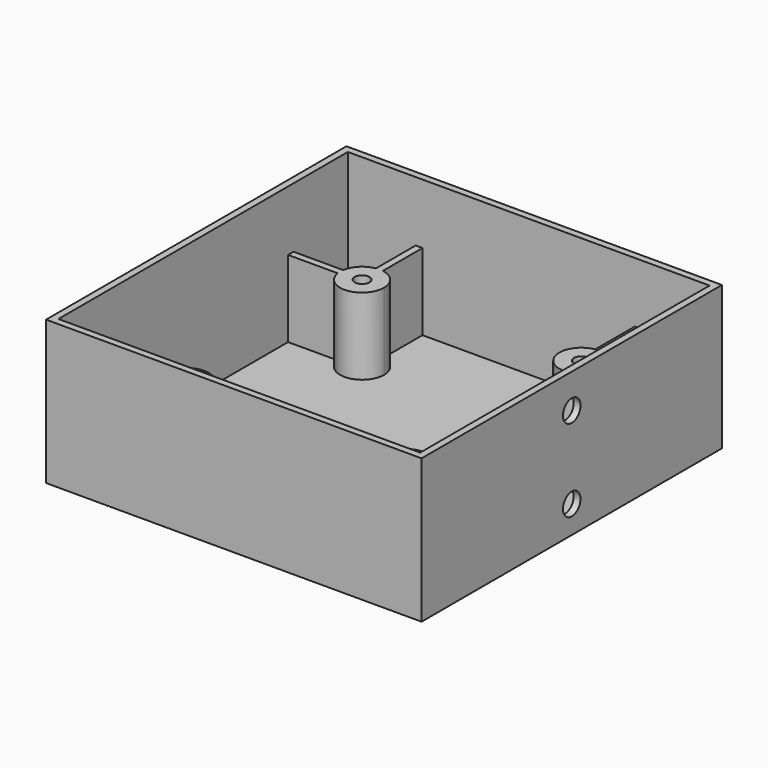
from build123d import *

# Parameters (mm, degrees)
F0_W     = 86.995
F0_H     = 86.995
F1_DEPTH = 1.5875
F2_W     = 86.995
F2_H     = 86.995
F2_W_2   = 83.82
F2_H_2   = 83.82
F3_DEPTH = 31.75
F4_R     = 1.7145
F5_DEPTH = 17.78
F6_R     = 2.54
F7_DEPTH = 1.5875


with BuildPart() as f1:
    # F0 (on Top) → F1 (new body)
    with BuildSketch(Plane.XY):
        Rectangle(F0_W, F0_H)
    extrude(amount=F1_DEPTH)

    # F2 (on face) → F3 (join)
    with BuildSketch(Plane.XY.offset(1.5875)):
        Rectangle(F2_W, F2_H)
        Rectangle(F2_W_2, F2_H_2, mode=Mode.SUBTRACT)
    extrude(amount=F3_DEPTH)

    # F4 (on face) → F5 (join)
    with BuildSketch(Plane.XY.offset(1.5875)):
        with BuildLine():
            ThreePointArc((-24.60625, -30.4176050998), (-21.5374457933, -28.6995567884), (-20.32, -25.4))
            ThreePointArc((-20.32, -25.4), (-25.0019007077, -20.3356227477), (-30.4176050998, -24.60625))
            Line((-30.4176050998, -24.60625), (-30.4176050998, -26.19375))
            ThreePointArc((-30.4176050998, -26.19375), (-28.9921024484, -28.9921024484), (-26.19375, -30.4176050998))
            Line((-26.19375, -30.4176050998), (-24.60625, -30.4176050998))
        make_face()
        with Locations((-25.4, -25.4)):
            Circle(F4_R, mode=Mode.SUBTRACT)
        with BuildLine():
            Line((-30.4176050998, -26.19375), (-30.4176050998, -24.60625))
            ThreePointArc((-30.4176050998, -24.60625), (-30.48, -25.4), (-30.4176050998, -26.19375))
        make_face()
        with BuildLine():
            ThreePointArc((-30.4176050998, -26.19375), (-30.48, -25.4), (-30.4176050998, -24.60625))
            Line((-30.4176050998, -24.60625), (-41.91, -24.60625))
            Line((-41.91, -24.60625), (-41.91, -26.19375))
            Line((-41.91, -26.19375), (-30.4176050998, -26.19375))
        make_face()
        with BuildLine():
            Line((-24.60625, -41.91), (-24.60625, -30.4176050998))
            ThreePointArc((-24.60625, -30.4176050998), (-25.4, -30.48), (-26.19375, -30.4176050998))
            Line((-26.19375, -30.4176050998), (-26.19375, -41.91))
            Line((-26.19375, -41.91), (-24.60625, -41.91))
        make_face()
        with BuildLine():
            ThreePointArc((-26.19375, -30.4176050998), (-25.4, -30.48), (-24.60625, -30.4176050998))
            Line((-24.60625, -30.4176050998), (-26.19375, -30.4176050998))
        make_face()
        with BuildLine():
            ThreePointArc((-30.4176050998, 24.60625), (-25.0019007077, 20.3356227477), (-20.32, 25.4))
            ThreePointArc((-20.32, 25.4), (-21.5374457933, 28.6995567884), (-24.60625, 30.4176050998))
            ThreePointArc((-24.60625, 30.4176050998), (-25.4, 30.48), (-26.19375, 30.4176050998))
            ThreePointArc((-26.19375, 30.4176050998), (-28.9921024484, 28.9921024484), (-30.4176050998, 26.19375))
            ThreePointArc((-30.4176050998, 26.19375), (-30.48, 25.4), (-30.4176050998, 24.60625))
        make_face()
        with Locations((-25.4, 25.4)):
            Circle(F4_R, mode=Mode.SUBTRACT)
        with BuildLine():
            ThreePointArc((-26.19375, 30.4176050998), (-25.4, 30.48), (-24.60625, 30.4176050998))
            Line((-24.60625, 30.4176050998), (-24.60625, 41.91))
            Line((-24.60625, 41.91), (-26.19375, 41.91))
            Line((-26.19375, 41.91), (-26.19375, 30.4176050998))
        make_face()
        with BuildLine():
            Line((-41.91, 24.60625), (-30.4176050998, 24.60625))
            ThreePointArc((-30.4176050998, 24.60625), (-30.48, 25.4), (-30.4176050998, 26.19375))
            Line((-30.4176050998, 26.19375), (-41.91, 26.19375))
            Line((-41.91, 26.19375), (-41.91, 24.60625))
        make_face()
        with BuildLine():
            Line((24.60625, -41.91), (26.19375, -41.91))
            Line((26.19375, -41.91), (26.19375, -30.4176050998))
            ThreePointArc((26.19375, -30.4176050998), (25.4, -30.48), (24.60625, -30.4176050998))
            Line((24.60625, -30.4176050998), (24.60625, -41.91))
        make_face()
        with BuildLine():
            ThreePointArc((24.60625, -30.4176050998), (25.4, -30.48), (26.19375, -30.4176050998))
            ThreePointArc((26.19375, -30.4176050998), (28.9921024484, -28.9921024484), (30.4176050998, -26.19375))
            ThreePointArc((30.4176050998, -26.19375), (30.4643772523, -25.7980992923), (30.48, -25.4))
            ThreePointArc((30.48, -25.4), (30.4643772523, -25.0019007077), (30.4176050998, -24.60625))
            ThreePointArc((30.4176050998, -24.60625), (21.8078975516, -21.8078975516), (24.60625, -30.4176050998))
        make_face()
        with Locations((25.4, -25.4)):
            Circle(F4_R, mode=Mode.SUBTRACT)
        with BuildLine():
            ThreePointArc((30.48, -25.4), (30.4643772523, -25.7980992923), (30.4176050998, -26.19375))
            Line((30.4176050998, -26.19375), (41.91, -26.19375))
            Line((41.91, -26.19375), (41.91, -24.60625))
            Line((41.91, -24.60625), (30.4176050998, -24.60625))
            ThreePointArc((30.4176050998, -24.60625), (30.4643772523, -25.0019007077), (30.48, -25.4))
        make_face()
        with BuildLine():
            Line((30.4176050998, 24.60625), (41.91, 24.60625))
            Line((41.91, 24.60625), (41.91, 26.19375))
            Line((41.91, 26.19375), (30.4176050998, 26.19375))
            ThreePointArc((30.4176050998, 26.19375), (30.4643772523, 25.7980992923), (30.48, 25.4))
            ThreePointArc((30.48, 25.4), (30.4643772523, 25.0019007077), (30.4176050998, 24.60625))
        make_face()
        with BuildLine():
            ThreePointArc((24.60625, 30.4176050998), (21.8078975516, 21.8078975516), (30.4176050998, 24.60625))
            ThreePointArc((30.4176050998, 24.60625), (30.4643772523, 25.0019007077), (30.48, 25.4))
            ThreePointArc((30.48, 25.4), (30.4643772523, 25.7980992923), (30.4176050998, 26.19375))
            ThreePointArc((30.4176050998, 26.19375), (28.9921024484, 28.9921024484), (26.19375, 30.4176050998))
            ThreePointArc((26.19375, 30.4176050998), (25.4, 30.48), (24.60625, 30.4176050998))
        make_face()
        with Locations((25.4, 25.4)):
            Circle(F4_R, mode=Mode.SUBTRACT)
        with BuildLine():
            Line((24.60625, 41.91), (24.60625, 30.4176050998))
            ThreePointArc((24.60625, 30.4176050998), (25.4, 30.48), (26.19375, 30.4176050998))
            Line((26.19375, 30.4176050998), (26.19375, 41.91))
            Line((26.19375, 41.91), (24.60625, 41.91))
        make_face()
    extrude(amount=F5_DEPTH)

    # F6 (on face) → F7 (cut, through all)
    with BuildSketch(Plane.YZ.offset(43.4975)):
        with Locations((0, 25.4)):
            Circle(F6_R)
        with Locations((0, 6.35)):
            Circle(F6_R)
    extrude(amount=-F7_DEPTH, mode=Mode.SUBTRACT)


solid = f1.part
